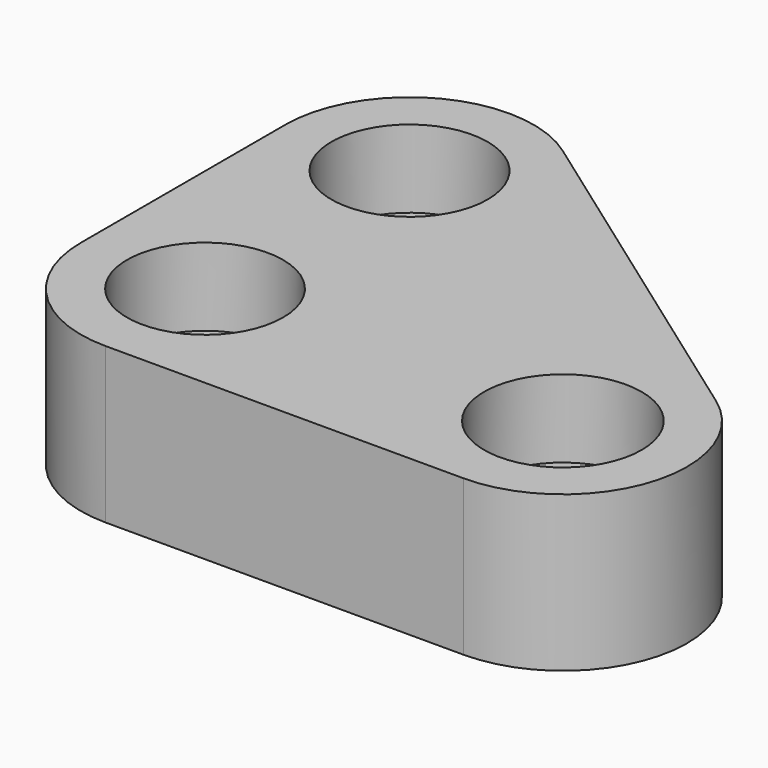
from build123d import *

# Parameters (mm, degrees)
F0_R     = 10.045621
F0_R_2   = 10.145405
F0_R_3   = 10.057845
F1_DEPTH = 20
F0_R_4   = 4.017037
F0_R_5   = 4.066063
F0_R_6   = 4.025873
F2_DEPTH = 10


with BuildPart() as f1:
    # F0 (on Top) → F1 (new body)
    with BuildSketch(Plane.XY):
        with BuildLine():
            ThreePointArc((0, 16), (4.686292, 4.686292), (16, 0))
            Line((16, 0), (62.072559, 0))
            ThreePointArc((62.072559, 0), (77.309287, 11.117161), (71.37237, 29.019736))
            Line((71.37237, 29.019736), (25.299811, 61.928706))
            ThreePointArc((25.299811, 61.928706), (8.678695, 63.135653), (0, 48.908971))
            Line((0, 48.908971), (0, 16))
        make_face()
        with Locations((16, 16)):
            Circle(F0_R, mode=Mode.SUBTRACT)
        with Locations((62.072559, 16)):
            Circle(F0_R_2, mode=Mode.SUBTRACT)
        with Locations((16, 48.908971)):
            Circle(F0_R_3, mode=Mode.SUBTRACT)
    extrude(amount=F1_DEPTH)

    # F0 (on Top) → F2 (join)
    with BuildSketch(Plane.XY):
        with Locations((16, 48.908971)):
            Circle(F0_R_3)
        with Locations((16, 48.908971)):
            Circle(F0_R_4, mode=Mode.SUBTRACT)
        with Locations((16, 16)):
            Circle(F0_R)
        with Locations((16, 16)):
            Circle(F0_R_5, mode=Mode.SUBTRACT)
        with Locations((62.072559, 16)):
            Circle(F0_R_2)
        with Locations((62.072559, 16)):
            Circle(F0_R_6, mode=Mode.SUBTRACT)
    extrude(amount=F2_DEPTH)


solid = f1.part
